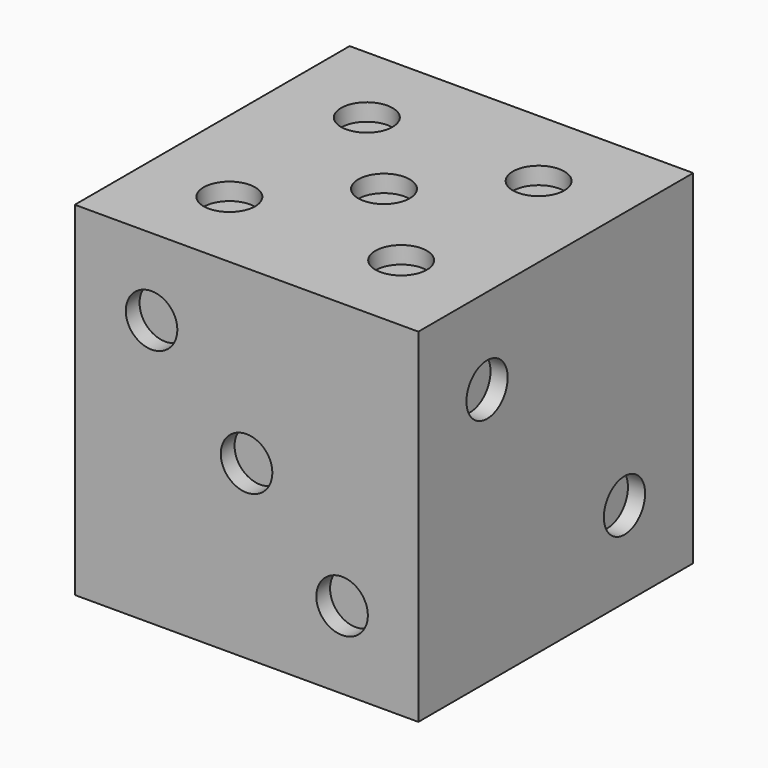
from build123d import *

# Parameters (mm, degrees)
F0_W      = 50.8
F0_H      = 50.8
F1_DEPTH  = 50.8
F2_R      = 3.81
F3_DEPTH  = 2.54
F4_R      = 3.81
F5_DEPTH  = 2.54
F6_R      = 3.81
F7_DEPTH  = 2.54
F8_R      = 3.81
F9_DEPTH  = 2.54
F10_R     = 3.81
F11_DEPTH = 2.54
F12_R     = 3.81
F13_DEPTH = 2.54


with BuildPart() as f1:
    # F0 (on Front) → F1 (new body)
    with BuildSketch(Plane.XZ):
        with Locations((-50.8, -50.8)):
            Rectangle(F0_W, F0_H)
    extrude(amount=F1_DEPTH)

    # F2 (on face) → F3 (cut)
    with BuildSketch(Plane(origin=(-76.2, 0, 0), x_dir=(0, -1, 0), z_dir=(-1, 0, 0))):
        with Locations((25.4, -50.8)):
            Circle(F2_R)
    extrude(amount=-F3_DEPTH, mode=Mode.SUBTRACT)

    # F4 (on face) → F5 (cut)
    with BuildSketch(Plane.YZ.offset(-25.4)):
        with Locations((-12.7, -63.5)):
            Circle(F4_R)
        with Locations((-38.1, -38.1)):
            Circle(F4_R)
    extrude(amount=-F5_DEPTH, mode=Mode.SUBTRACT)

    # F6 (on face) → F7 (cut)
    with BuildSketch(Plane.XZ.offset(50.8)):
        with Locations((-50.8, -50.8)):
            Circle(F6_R)
        with Locations((-64.847043, -36.752957)):
            Circle(F6_R)
        with Locations((-36.675387, -64.77)):
            Circle(F6_R)
    extrude(amount=-F7_DEPTH, mode=Mode.SUBTRACT)

    # F8 (on face) → F9 (cut)
    with BuildSketch(Plane(origin=(0, 0, 0), x_dir=(-1, 0, 0), z_dir=(0, 1, 0))):
        with Locations((38.1, -38.1)):
            Circle(F8_R)
        with Locations((63.5, -38.1)):
            Circle(F8_R)
        with Locations((38.1, -63.5)):
            Circle(F8_R)
        with Locations((63.5, -63.5)):
            Circle(F8_R)
    extrude(amount=-F9_DEPTH, mode=Mode.SUBTRACT)

    # F10 (on face) → F11 (cut)
    with BuildSketch(Plane.XY.offset(-25.4)):
        with Locations((-63.5, -12.7)):
            Circle(F10_R)
        with Locations((-38.1, -12.7)):
            Circle(F10_R)
        with Locations((-63.5, -38.1)):
            Circle(F10_R)
        with Locations((-38.1, -38.1)):
            Circle(F10_R)
        with Locations((-50.8, -25.4)):
            Circle(F10_R)
    extrude(amount=-F11_DEPTH, mode=Mode.SUBTRACT)

    # F12 (on face) → F13 (cut)
    with BuildSketch(Plane(origin=(0, 0, -76.2), x_dir=(1, 0, 0), z_dir=(0, 0, -1))):
        with Locations((-60.96, 25.4)):
            Circle(F12_R)
        with Locations((-60.96, 38.1)):
            Circle(F12_R)
        with Locations((-60.96, 12.7)):
            Circle(F12_R)
        with Locations((-40.64, 12.7)):
            Circle(F12_R)
        with Locations((-40.64, 25.4)):
            Circle(F12_R)
        with Locations((-40.64, 38.1)):
            Circle(F12_R)
    extrude(amount=-F13_DEPTH, mode=Mode.SUBTRACT)


solid = f1.part
